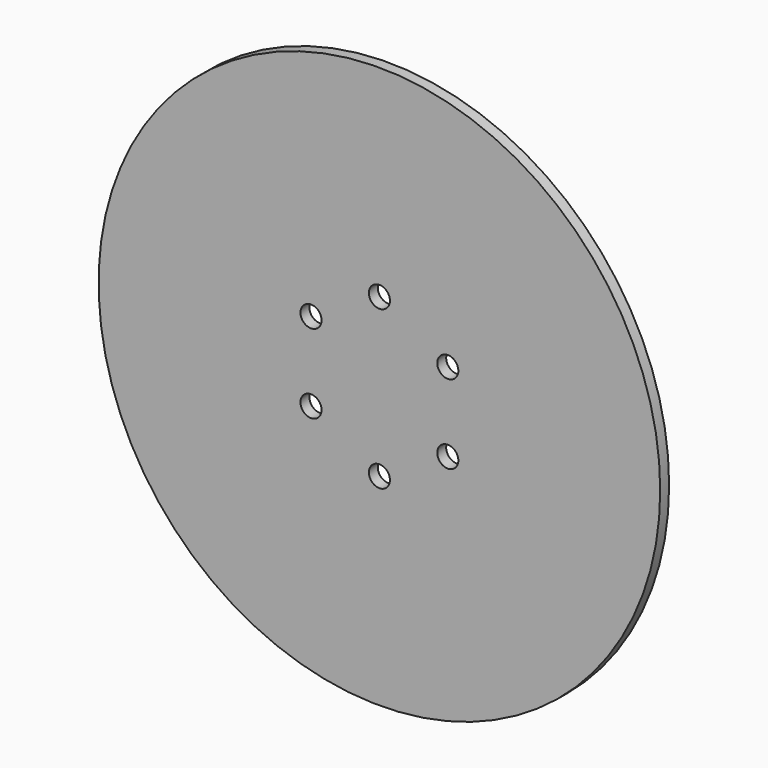
from build123d import *

# Parameters (mm, degrees)
F0_R          = 79.99984
F1_DEPTH      = 3.175
F2_R          = 3
F3_DEPTH      = 25
F3_DEPTH_BACK = 25


with BuildPart() as f1:
    # F0 (on Front) → F1 (new body)
    with BuildSketch(Plane.XZ):
        Circle(F0_R)
    extrude(amount=F1_DEPTH)

    # F2 (on face) → F3 (cut, two sides)
    with BuildSketch(Plane.XZ.offset(3.175)) as f3_sk:
        with Locations((0, 22.5)):
            Circle(F2_R)
        with Locations((-19.485572, 11.25)):
            Circle(F2_R)
        with Locations((-19.485572, -11.25)):
            Circle(F2_R)
        with Locations((0, -22.5)):
            Circle(F2_R)
        with Locations((19.485572, -11.25)):
            Circle(F2_R)
        with Locations((19.485572, 11.25)):
            Circle(F2_R)
    extrude(amount=-F3_DEPTH, mode=Mode.SUBTRACT)
    extrude(f3_sk.sketch, amount=-F3_DEPTH_BACK, mode=Mode.SUBTRACT)


solid = f1.part
